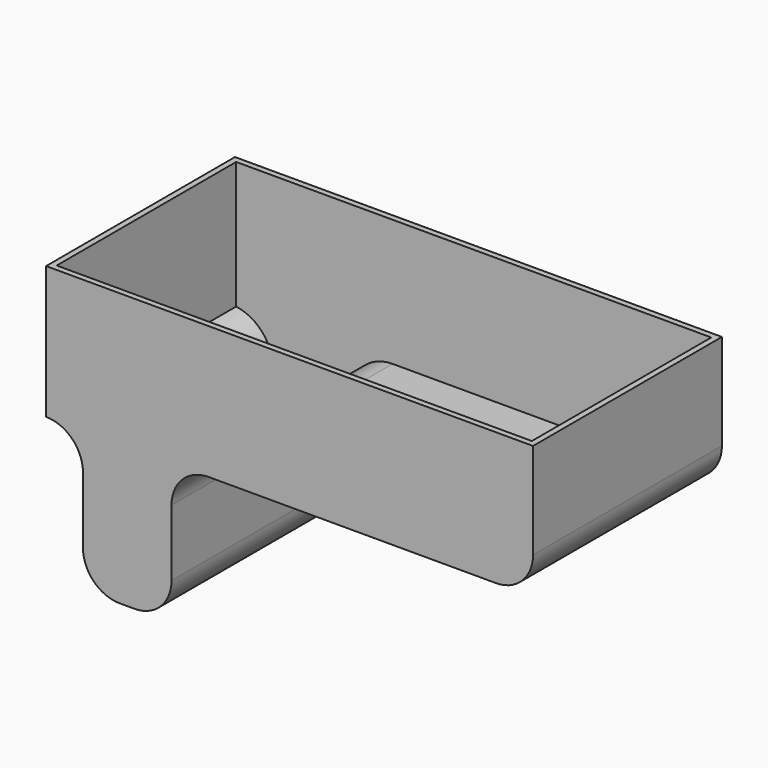
from build123d import *

# Parameters (mm, degrees)
F1_DEPTH = 160
F4_DEPTH = 152


with BuildPart() as f1:
    # F0 (on Front) → F1 (new body)
    with BuildSketch(Plane.XZ):
        with BuildLine():
            Line((0, -70), (0, -25))
            ThreePointArc((0, -25), (7.32233, -7.32233), (25, 0))
            Line((25, 0), (-85, 0))
            ThreePointArc((-85, 0), (-67.32233, -7.32233), (-60, -25))
            Line((-60, -25), (-60, -70))
            ThreePointArc((-60, -70), (-52.67767, -87.67767), (-35, -95))
            Line((-35, -95), (-25, -95))
            ThreePointArc((-25, -95), (-7.32233, -87.67767), (0, -70))
        make_face()
        with BuildLine():
            Line((-85, 0), (25, 0))
            Line((25, 0), (220, 0))
            ThreePointArc((220, 0), (237.67767, 7.32233), (245, 25))
            Line((245, 25), (245, 90))
            Line((245, 90), (-85, 90))
            Line((-85, 90), (-85, 0))
        make_face()
    extrude(amount=F1_DEPTH)

    # F3 (on offset) → F4 (cut)
    with BuildSketch(Plane.XZ.offset(4)):
        with BuildLine():
            Line((-35, -91), (-25, -91))
            ThreePointArc((-25, -91), (-10.150758, -84.849242), (-4, -70))
            Line((-4, -70), (-4, -25))
            ThreePointArc((-4, -25), (4.493903, -4.493903), (25, 4))
            Line((25, 4), (220, 4))
            ThreePointArc((220, 4), (234.849242, 10.150758), (241, 25))
            Line((241, 25), (241, 90))
            Line((241, 90), (-81, 90))
            Line((-81, 90), (-81, 3.722813))
            ThreePointArc((-81, 3.722813), (-63.125357, -5.960567), (-56, -25))
            Line((-56, -25), (-56, -70))
            ThreePointArc((-56, -70), (-49.849242, -84.849242), (-35, -91))
        make_face()
    extrude(amount=F4_DEPTH, mode=Mode.SUBTRACT)


solid = f1.part
